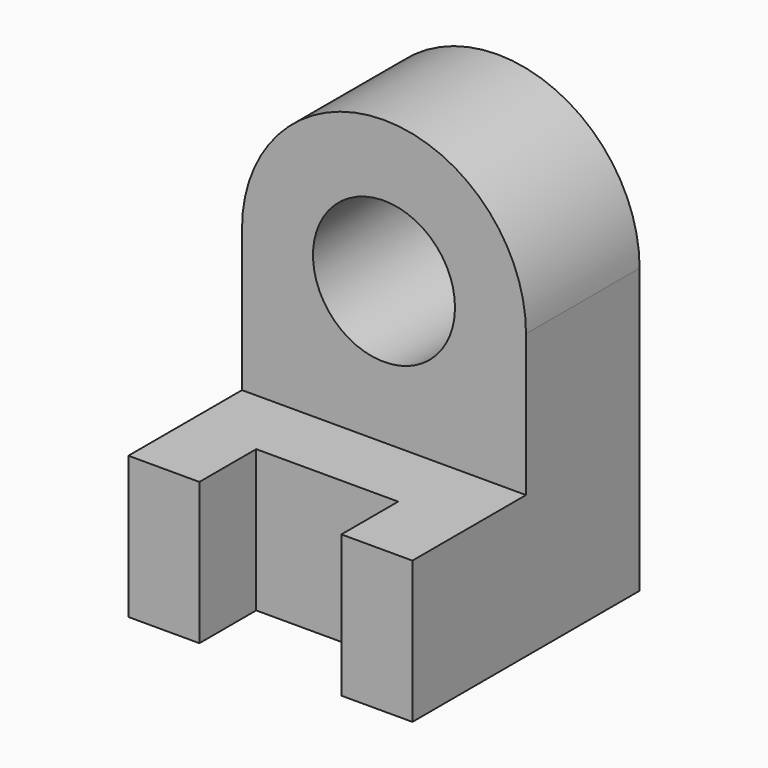
from build123d import *

# Parameters (mm, degrees)
F0_W     = 25.4
F0_H     = 44.45
F1_DEPTH = 25.4
F2_W     = 12.7
F2_H     = 31.75
F3_DEPTH = 25.401
F4_W     = 12.7
F4_H     = 12.7
F5_DEPTH = 6.35
F7_DEPTH = 12.701
F8_R     = 6.35
F9_DEPTH = 25.4


with BuildPart() as f1:
    # F0 (on Front) → F1 (new body)
    with BuildSketch(Plane.XZ):
        with Locations((12.7, 22.225)):
            Rectangle(F0_W, F0_H)
    extrude(amount=F1_DEPTH)

    # F2 (on face) → F3 (cut, through all)
    with BuildSketch(Plane.YZ.offset(25.4)):
        with Locations((-19.05, 28.575)):
            Rectangle(F2_W, F2_H)
    extrude(amount=-F3_DEPTH, mode=Mode.SUBTRACT)

    # F4 (on face) → F5 (cut)
    with BuildSketch(Plane.XZ.offset(25.4)):
        with Locations((12.7, 6.35)):
            Rectangle(F4_W, F4_H)
    extrude(amount=-F5_DEPTH, mode=Mode.SUBTRACT)

    # F6 (on face) → F7 (cut, through all)
    with BuildSketch(Plane.XZ.offset(12.7)):
        with BuildLine():
            ThreePointArc((0, 25.4), (12.7, 38.1), (25.4, 25.4))
            Line((25.4, 25.4), (25.4, 44.45))
            Line((25.4, 44.45), (0, 44.45))
            Line((0, 44.45), (0, 25.4))
        make_face()
    extrude(amount=-F7_DEPTH, mode=Mode.SUBTRACT)

    # F8 (on face) → F9 (cut)
    with BuildSketch(Plane.XZ.offset(12.7)):
        with Locations((12.7, 25.4)):
            Circle(F8_R)
    extrude(amount=-F9_DEPTH, mode=Mode.SUBTRACT)


solid = f1.part
